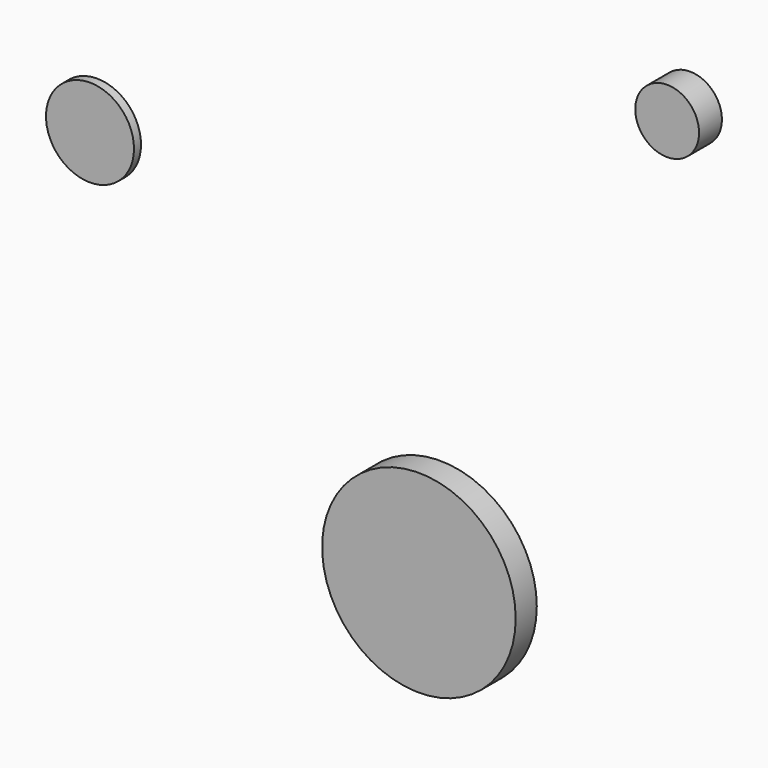
from build123d import *

# Parameters (mm, degrees)
F0_R     = 11
F1_DEPTH = 3
F0_R_2   = 5
F2_DEPTH = 1
F0_R_3   = 3.625
F3_DEPTH = 3.25


with BuildPart() as f1:
    # F0 (on Front) → F1 (new body)
    with BuildSketch(Plane.XZ):
        Circle(F0_R)
    extrude(amount=F1_DEPTH)


with BuildPart() as f2:
    # F0 (on Front) → F2 (new body)
    with BuildSketch(Plane.XZ):
        with Locations((-38.980667, 31.555783)):
            Circle(F0_R_2)
    extrude(amount=F2_DEPTH)


with BuildPart() as f3:
    # F0 (on Front) → F3 (new body)
    with BuildSketch(Plane.XZ):
        with Locations((28.414482, 55.543885)):
            Circle(F0_R_3)
    extrude(amount=F3_DEPTH)


solid = Compound([f1.part, f2.part, f3.part])
